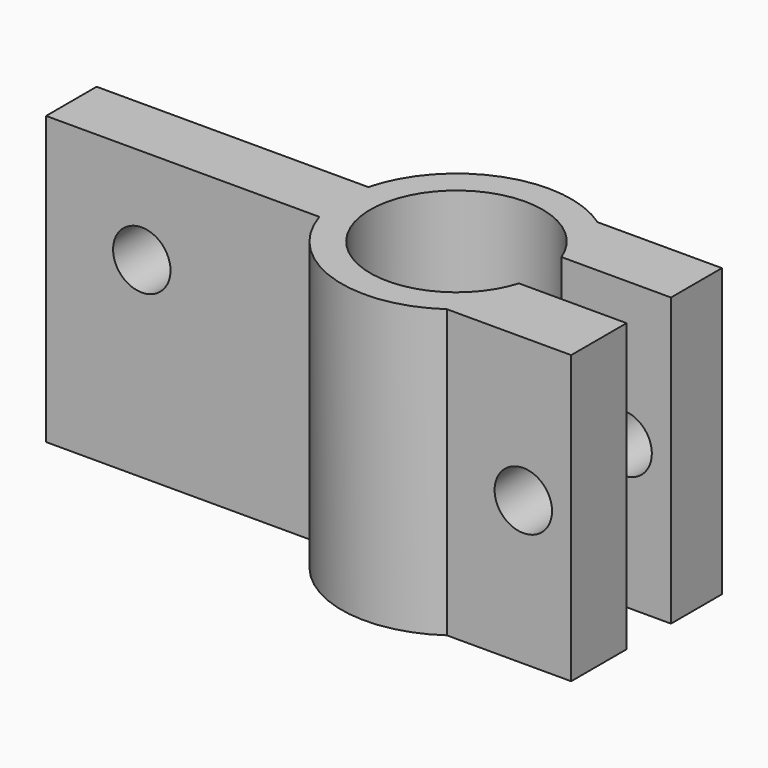
from build123d import *

# Parameters (mm, degrees)
F1_DEPTH = 15
F2_R     = 1.5
F3_DEPTH = 25
F4_R     = 1.5
F5_DEPTH = 25


with BuildPart() as f1:
    # F0 (on Top) → F1 (new body)
    with BuildSketch(Plane.XY):
        with BuildLine():
            ThreePointArc((24.306717, -1.304678), (15.502635, -0.15397), (24.207405, 1.596164))
            Line((24.207405, 1.596164), (29.928384, 1.596164))
            Line((29.928384, 1.596164), (29.928384, 4.922138))
            Line((29.928384, 4.922138), (23.431116, 4.922138))
            ThreePointArc((23.431116, 4.922138), (17.916276, 5.626553), (14.190525, 1.5))
            Line((14.190525, 1.5), (11.973724, 1.5))
            Line((11.973724, 1.5), (0, 1.5))
            Line((0, 1.5), (0, 0))
            Line((0, 0), (0, -1.5))
            Line((0, -1.5), (0, -1.8))
            Line((0, -1.8), (11.019785, -1.8))
            Line((11.019785, -1.8), (14.276365, -1.8))
            ThreePointArc((14.276365, -1.8), (18.063289, -5.678834), (23.431116, -4.922138))
            Line((23.431116, -4.922138), (29.928384, -4.922138))
            Line((29.928384, -4.922138), (29.928384, -1.304678))
            Line((29.928384, -1.304678), (24.306717, -1.304678))
        make_face()
    extrude(amount=F1_DEPTH)

    # F2 (on face) → F3 (cut)
    with BuildSketch(Plane.XZ.offset(1.8)):
        with Locations((5, 10)):
            Circle(F2_R)
    extrude(amount=-F3_DEPTH, mode=Mode.SUBTRACT)

    # F4 (on face) → F5 (cut)
    with BuildSketch(Plane.XZ.offset(4.922138)):
        with Locations((27.428384, 7.5)):
            Circle(F4_R)
    extrude(amount=-F5_DEPTH, mode=Mode.SUBTRACT)


solid = f1.part
